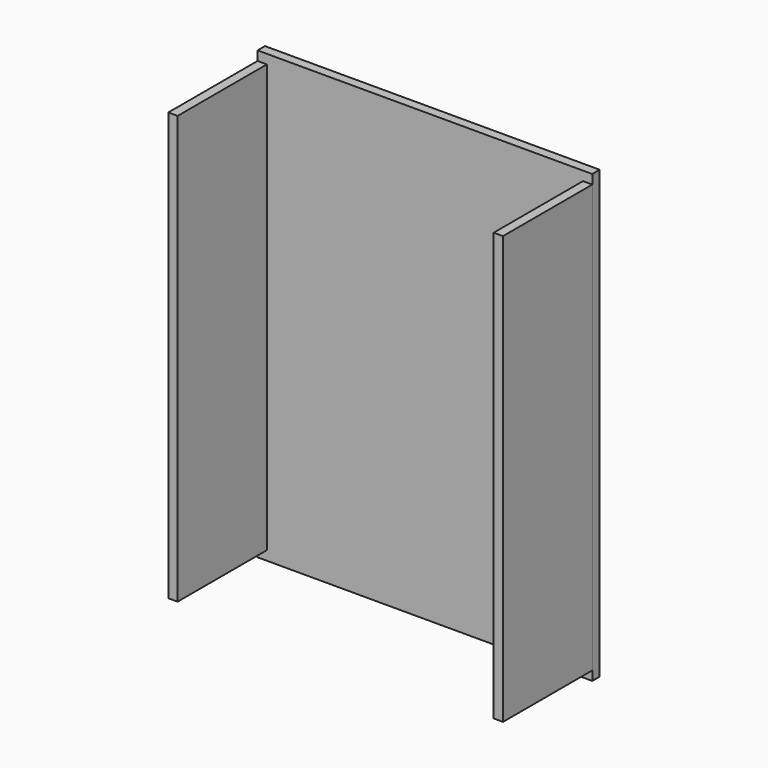
from build123d import *

# Parameters (mm, degrees)
F0_W     = 457.2
F0_H     = 609.6
F1_DEPTH = 12.7
F2_W     = 12.7
F2_H     = 584.2
F3_DEPTH = 152.4


with BuildPart() as f1:
    # F0 (on Front) → F1 (new body)
    with BuildSketch(Plane.XZ):
        Rectangle(F0_W, F0_H)
    extrude(amount=F1_DEPTH)


with BuildPart() as f3:
    # F2 (on face) → F3 (new body)
    with BuildSketch(Plane.XZ.offset(12.7)):
        with Locations((-222.25, 0)):
            Rectangle(F2_W, F2_H)
        with Locations((222.25, 0)):
            Rectangle(F2_W, F2_H)
    extrude(amount=F3_DEPTH)


solid = Compound([f1.part, f3.part])
